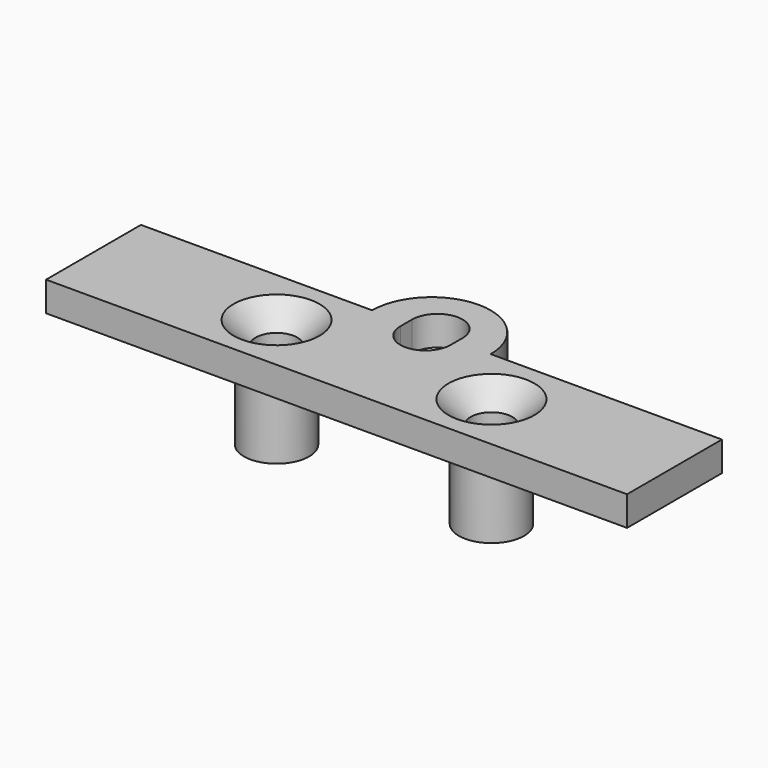
from build123d import *

# Parameters (mm, degrees)
PAD072_DEPTH            = 2
CYLINDER084_R           = 2.2
CYLINDER084_DEPTH       = 7
SKETCH123_R             = 1.4
POCKET026_DEPTH         = 7.401
CHAMFER001_SIZE         = 1.5
BODY090_PLACEMENT_ANGLE = 180
BODY093_ROLL_ANGLE      = 90
BODY093_PLACEMENT_ANGLE = 180


with BuildPart() as part:
    # Sketch122 → Pad072 (new body)
    with BuildSketch(Plane.XZ):
        with BuildLine():
            Line((-4, -2.5), (-19.6, -2.5))
            Line((-19.6, -2.5), (-19.6, -10.5))
            Line((-19.6, -10.5), (19.6, -10.5))
            Line((19.6, -10.5), (19.6, -2.5))
            Line((19.6, -2.5), (4, -2.5))
            ThreePointArc((4, -2.5), (0, 1.5), (-4, -2.5))
        make_face()
        with BuildLine():
            ThreePointArc((1.7, -2), (0, -0.3), (-1.7, -2))
            Line((-1.7, -2), (-1.7, -3))
            ThreePointArc((-1.7, -3), (0, -4.7), (1.7, -3))
            Line((1.7, -3), (1.7, -2))
        make_face(mode=Mode.SUBTRACT)
    extrude(amount=PAD072_DEPTH)

    # Cylinder084 → Cylinder084 (join)
    with BuildSketch(Plane(origin=(7.25, 5.4, -6.5), x_dir=(1, 0, 0), z_dir=(0, -1, 0))):
        Circle(CYLINDER084_R)
    cylinder084 = extrude(amount=CYLINDER084_DEPTH)

    # Mirrored020: Cylinder084 across YZ
    add(cylinder084.mirror(Plane.YZ))

    # Sketch123 → Pocket026 (cut, through all)
    with BuildSketch(Plane.XZ.offset(2)):
        with Locations((-7.25, -6.5)):
            Circle(SKETCH123_R)
        with Locations((7.25, -6.5)):
            Circle(SKETCH123_R)
    extrude(amount=-POCKET026_DEPTH, mode=Mode.SUBTRACT)

    # Chamfer001
    chamfer001_edges = [part.edges().sort_by_distance(p)[0] for p in [
        (-8.65, -2, -6.5),
        (5.85, -2, -6.5),
    ]]
    chamfer(chamfer001_edges, length=CHAMFER001_SIZE)


with BuildPart() as part_1:
    # Body090 placement: moved
    add(part.part.moved(Location((0, 4.2, 0))).rotate(Axis((0, 4.2, 0), (0, 0, 1)), BODY090_PLACEMENT_ANGLE))


with BuildPart() as part_2:
    # Clone023 placement: moved
    add(part_1.part.moved(Location((0, -4.2, 0))))


with BuildPart() as part_3:
    # Body093 roll: moved
    add(part_2.part.rotate(Axis((0, 0, 0), (1, 0, 0)), BODY093_ROLL_ANGLE))


with BuildPart() as part_4:
    # Body093 placement: moved
    add(part_3.part.moved(Location((40, 17, 58.2))).rotate(Axis((40, 17, 58.2), (0, 0, 1)), BODY093_PLACEMENT_ANGLE))


solid = part_4.part
